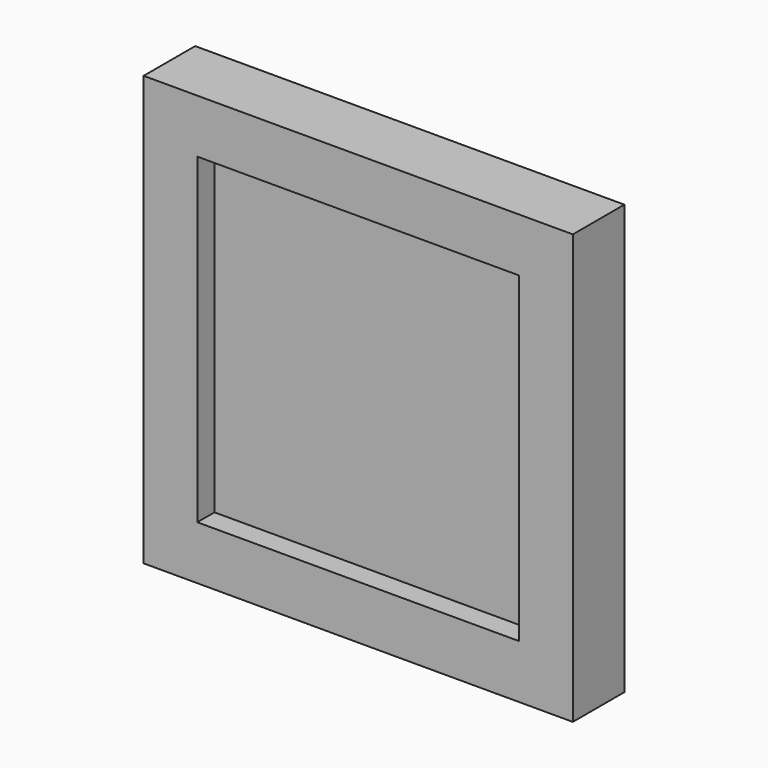
from build123d import *

# Parameters (mm, degrees)
F0_W     = 40
F0_H     = 40
F0_W_2   = 35
F0_H_2   = 35
F1_DEPTH = 6
F2_DEPTH = 2
F3_W     = 2.5
F3_H     = 30
F4_DEPTH = 2


with BuildPart() as f1:
    # F0 (on Front) → F1 (new body)
    with BuildSketch(Plane.XZ):
        Rectangle(F0_W, F0_H)
        Rectangle(F0_W_2, F0_H_2, mode=Mode.SUBTRACT)
    extrude(amount=F1_DEPTH)

    # F0 (on Front) → F2 (join)
    with BuildSketch(Plane.XZ):
        Rectangle(F0_W_2, F0_H_2)
    extrude(amount=F2_DEPTH)

    # F3 (on face) → F4 (join)
    with BuildSketch(Plane.XZ.offset(6)):
        Polygon((-17.5, 17.5), (-17.5, 15), (-15, 15), (15, 15), (17.5, 15), (17.5, 17.5), align=None)
        with Locations((-16.25, 0)):
            Rectangle(F3_W, F3_H)
        Polygon((-15, -15), (-17.5, -15), (-17.5, -17.5), (15, -17.5), (15, -15), align=None)
        Polygon((17.5, 15), (15, 15), (15, -15), (15, -17.5), (17.5, -17.5), align=None)
    extrude(amount=-F4_DEPTH)


solid = f1.part
